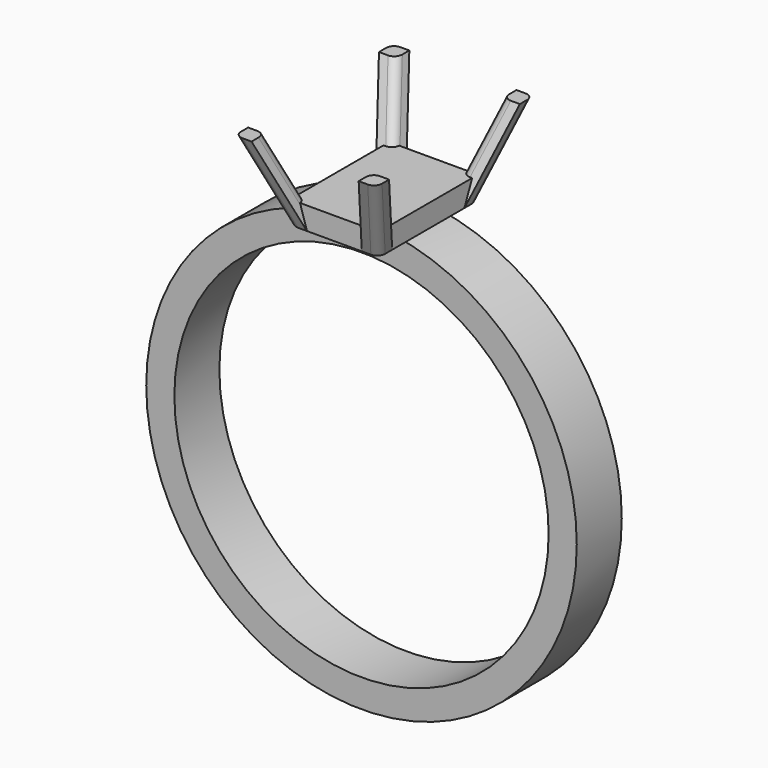
from build123d import *

# Parameters (mm, degrees)
F0_R     = 9.72
F0_R_2   = 8.45
F1_DEPTH = 1.27
F2_W     = 4
F2_H     = 1.016
F3_DEPTH = 2.8
F5_W     = 0.762
F5_H     = 0.762
F9_W     = 0.762
F9_H     = 0.762
F10_W    = 0.762
F10_H    = 0.762
F8_W     = 0.762
F8_H     = 0.762
F18_R    = 0.381


with BuildPart() as f1:
    # F0 (on Front) → F1 (new body, symmetric)
    with BuildSketch(Plane.XZ):
        Circle(F0_R)
        Circle(F0_R_2, mode=Mode.SUBTRACT)
    extrude(amount=F1_DEPTH, both=True)


with BuildPart() as f3:
    # F2 (on Front) → F3 (new body, symmetric)
    with BuildSketch(Plane.XZ):
        with Locations((0, 10.0200134567)):
            Rectangle(F2_W, F2_H)
    extrude(amount=F3_DEPTH, both=True)

    # F7: sweep along a path in F6
    with BuildLine(Plane(origin=(0, 0, 0), x_dir=(-0.5812381937, -0.8137334712, 0), z_dir=(-0.8137334712, 0.5812381937, 0))) as f7_path:
        Line((-3.4409301068, 9.5120134567), (-5.4729301068, 13.3580134567))
    # F5 (on face) → F7 (sweep)
    with BuildSketch(Plane(origin=(0, 0, 9.5120134567), x_dir=(1, 0, 0), z_dir=(0, 0, -1))):
        with Locations((1.619, -2.419)):
            Rectangle(F5_W, F5_H)
    sweep(path=f7_path.line)

    # F12: sweep along a path in F11
    with BuildLine(Plane(origin=(0, 0, 0), x_dir=(-0.5812381937, -0.8137334712, 0), z_dir=(-0.8137334712, 0.5812381937, 0))) as f12_path:
        Line((5.4729301068, 13.3580134567), (3.4409301068, 9.5120134567))
    # F9 (on face) → F12 (sweep)
    with BuildSketch(Plane(origin=(0, 0, 9.5120134567), x_dir=(1, 0, 0), z_dir=(0, 0, -1))):
        with Locations((-1.619, 2.419)):
            Rectangle(F9_W, F9_H)
    sweep(path=f12_path.line)

    # F15: sweep along a path in F14
    with BuildLine(Plane(origin=(0, 0, 0), x_dir=(0.5812381937, -0.8137334712, 0), z_dir=(-0.8137334712, -0.5812381937, 0))) as f15_path:
        Line((3.4409301068, 9.5120134567), (5.4729301068, 13.3580134567))
    # F10 (on face) → F15 (sweep)
    with BuildSketch(Plane(origin=(0, 0, 9.5120134567), x_dir=(1, 0, 0), z_dir=(0, 0, -1))):
        with Locations((1.619, 2.419)):
            Rectangle(F10_W, F10_H)
    sweep(path=f15_path.line)

    # F17: sweep along a path in F16
    with BuildLine(Plane(origin=(0, 0, 0), x_dir=(0.5812381937, -0.8137334712, 0), z_dir=(-0.8137334712, -0.5812381937, 0))) as f17_path:
        Line((-5.4729301068, 13.3580134567), (-3.4409301068, 9.5120134567))
    # F8 (on face) → F17 (sweep)
    with BuildSketch(Plane(origin=(0, 0, 9.5120134567), x_dir=(1, 0, 0), z_dir=(0, 0, -1))):
        with Locations((-1.619, -2.419)):
            Rectangle(F8_W, F8_H)
    sweep(path=f17_path.line)

    # F18 (call 1 of 8: OpenCascade refuses the feature's edges together)
    f18_edges = [f3.edges().sort_by_distance(p)[0] for p in [
        (-1.984541, -3.083157, 11.943013),
    ]]
    fillet(f18_edges, radius=F18_R)

    # F18#2 (call 2 of 8)
    f18_2_edges = [f3.edges().sort_by_distance(p)[0] for p in [
        (1.984541, 3.083157, 11.943013),
    ]]
    fillet(f18_2_edges, radius=F18_R)

    # F18#3 (call 3 of 8)
    f18_3_edges = [f3.edges().sort_by_distance(p)[0] for p in [
        (-2.590538, -3.626753, 11.435013),
    ]]
    fillet(f18_3_edges, radius=F18_R)

    # F18#4 (call 4 of 8)
    f18_4_edges = [f3.edges().sort_by_distance(p)[0] for p in [
        (2.590538, 3.626753, 11.435013),
    ]]
    fillet(f18_4_edges, radius=F18_R)

    # F18#5 (call 5 of 8)
    f18_5_edges = [f3.edges().sort_by_distance(p)[0] for p in [
        (-2.590538, 3.626753, 11.435013),
    ]]
    fillet(f18_5_edges, radius=F18_R)

    # F18#6 (call 6 of 8)
    f18_6_edges = [f3.edges().sort_by_distance(p)[0] for p in [
        (1.984541, -3.083157, 11.943013),
    ]]
    fillet(f18_6_edges, radius=F18_R)

    # F18#7 (call 7 of 8)
    f18_7_edges = [f3.edges().sort_by_distance(p)[0] for p in [
        (-1.984541, 3.083157, 11.943013),
    ]]
    fillet(f18_7_edges, radius=F18_R)

    # F18#8 (call 8 of 8)
    f18_8_edges = [f3.edges().sort_by_distance(p)[0] for p in [
        (2.590538, -3.626753, 11.435013),
    ]]
    fillet(f18_8_edges, radius=F18_R)


solid = Compound([f1.part, f3.part])
